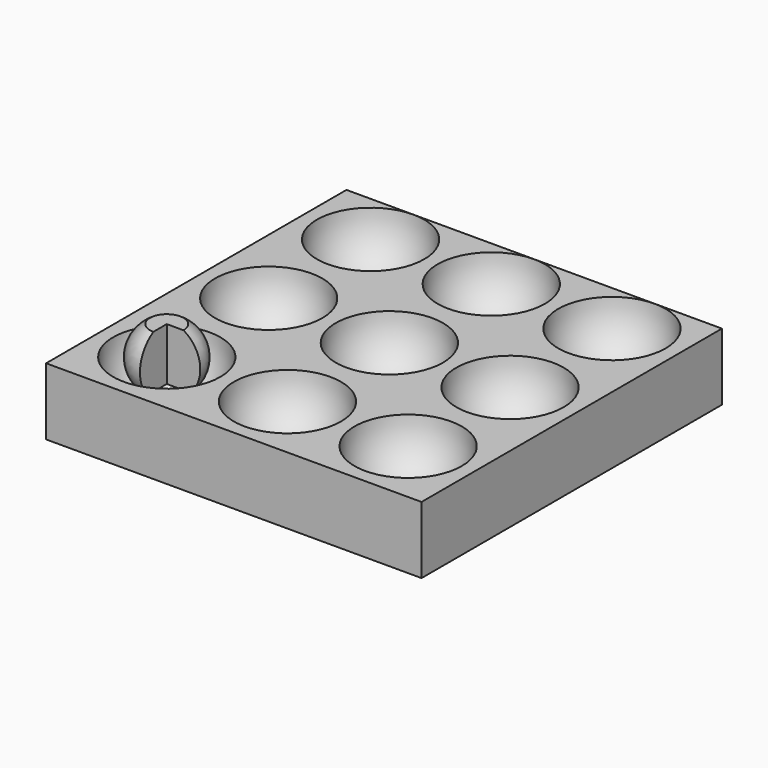
from build123d import *

# Parameters (mm, degrees)
SPHERE_ANGLE  = 270
ARRAY_X_COUNT = 3
ARRAY_X_PITCH = 18
ARRAY_Y_COUNT = 3
ARRAY_Y_PITCH = 19
BOX_W         = 56
BOX_H         = 56
BOX_DEPTH     = 10


with BuildPart() as pac_man:
    # Sphere → Sphere (revolve)
    with BuildSketch(Plane.XZ):
        with BuildLine():
            ThreePointArc((3.535534, -3.535534), (4.957224, 0.652631), (2.5, 4.330127))
            Line((2.5, 4.330127), (0, 4.330127))
            Line((0, 4.330127), (0, -3.535534))
            Line((0, -3.535534), (3.535534, -3.535534))
        make_face()
    revolve(axis=Axis((0, 0, 0), (0, 0, 1)), revolution_arc=SPHERE_ANGLE)


with BuildPart() as array:
    # Sphere001 → Sphere001 (revolve)
    with BuildSketch(Plane.XZ):
        with BuildLine():
            ThreePointArc((0, -8), (8, 0), (0, 8))
            Line((0, 8), (0, -8))
        make_face()
    revolve(axis=Axis((0, 0, 0), (0, 0, 1)))

    # Array X: Array ×3


with BuildPart() as array_1:
    add(array.part)
    with Locations(*[(i * ARRAY_X_PITCH, 0, 0) for i in range(1, ARRAY_X_COUNT)]):
        add(array.part)

    # Array Y: Array ×3


with BuildPart() as array_2:
    add(array_1.part)
    with Locations(*[(0, i * ARRAY_Y_PITCH, 0) for i in range(1, ARRAY_Y_COUNT)]):
        add(array_1.part)


with BuildPart() as cut:
    # Box → Box (new body)
    with BuildSketch(Plane(origin=(-10, -10, -10), x_dir=(1, 0, 0), z_dir=(0, 0, 1))):
        with Locations((28, 28)):
            Rectangle(BOX_W, BOX_H)
    extrude(amount=BOX_DEPTH)

    # Cut: cut Array
    add(array_2.part, mode=Mode.SUBTRACT)


solid = Compound([pac_man.part, cut.part])
